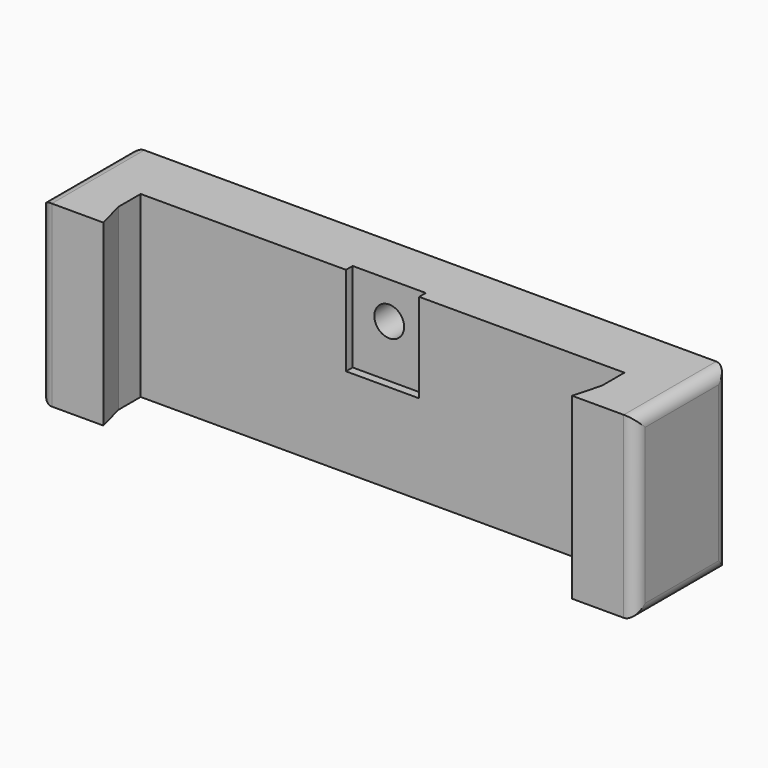
from build123d import *

# Parameters (mm, degrees)
F0_W     = 63.5
F0_H     = 12.319
F1_DEPTH = 19.05
F2_W     = 51.562
F2_H     = 2.9845
F3_DEPTH = 25.4
F4_W     = 7.7978
F4_H     = 1.778
F5_DEPTH = 9.525
F6_R     = 1.5875
F7_DEPTH = 25.4
F8_R     = 1.27


with BuildPart() as f1:
    # F0 (on Top) → F1 (new body)
    with BuildSketch(Plane.XY):
        Rectangle(F0_W, F0_H)
    extrude(amount=F1_DEPTH)

    # F2 (on face) → F3 (cut)
    with BuildSketch(Plane.XY.offset(19.05)):
        Polygon((24.981306, -6.1595), (25.781, -3.175), (-25.781, -3.175), (-24.981306, -6.1595), (0, -6.1595), align=None)
        with Locations((0, -1.68275)):
            Rectangle(F2_W, F2_H)
    extrude(amount=-F3_DEPTH, mode=Mode.SUBTRACT)

    # F4 (on face) → F5 (cut)
    with BuildSketch(Plane.XY.offset(19.05)):
        with Locations((0, -0.1905)):
            Rectangle(F4_W, F4_H)
    extrude(amount=-F5_DEPTH, mode=Mode.SUBTRACT)

    # F6 (on face) → F7 (cut)
    with BuildSketch(Plane.XZ.offset(0.1905)):
        with Locations((0, 15.113)):
            Circle(F6_R)
    extrude(amount=-F7_DEPTH, mode=Mode.SUBTRACT)

    # F8
    f8_edges = [f1.edges().sort_by_distance(p)[0] for p in [
        (31.75, 6.1595, 9.525),
        (-31.75, 0, 0),
        (-31.75, -6.1595, 9.525),
        (31.75, -6.1595, 9.525),
        (31.75, 0, 0),
        (-31.75, 0, 19.05),
        (31.75, 0, 19.05),
        (-31.75, 6.1595, 9.525),
    ]]
    fillet(f8_edges, radius=F8_R)


solid = f1.part
